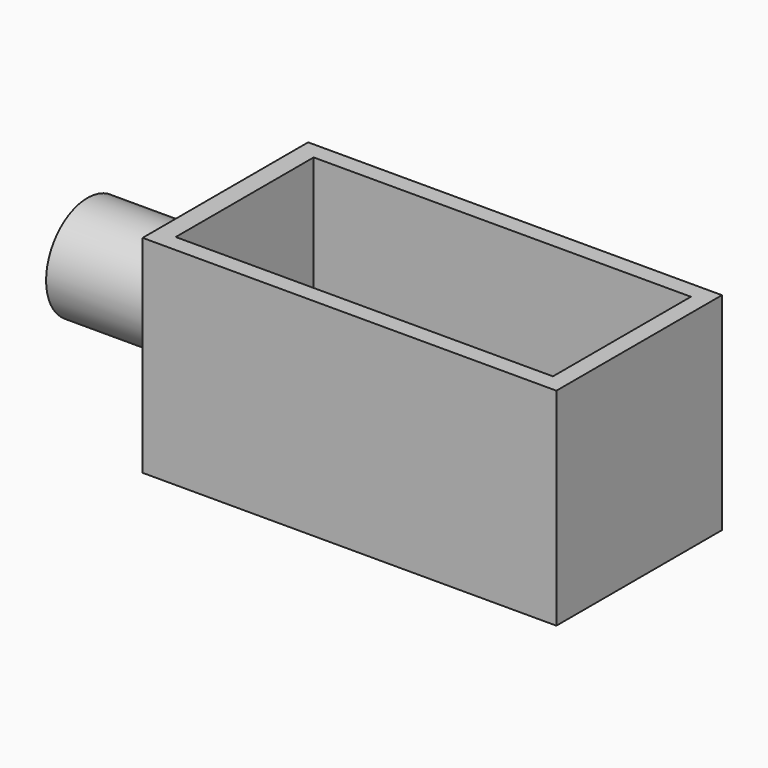
from build123d import *

# Parameters (mm, degrees)
F0_W     = 152.4
F0_H     = 76.2
F1_DEPTH = 6.35
F2_W     = 138.938
F2_H     = 6.35
F3_DEPTH = 69.85
F4_R     = 19.05
F4_R_2   = 7.9375
F5_DEPTH = 50.8
F6_R     = 7.9375
F7_DEPTH = 7.62
F8_SIZE  = 5.08
F9_SIZE  = 5.08


with BuildPart() as f1:
    # F0 (on Top) → F1 (new body)
    with BuildSketch(Plane.XY):
        Rectangle(F0_W, F0_H)
    extrude(amount=F1_DEPTH)

    # F2 (on face) → F3 (join)
    with BuildSketch(Plane.XY.offset(6.35)):
        Polygon((-69.088, 38.1), (-76.2, 38.1), (-76.2, -38.1), (-69.088, -38.1), (-69.088, -31.75), (-69.088, 31.75), align=None)
        Polygon((76.2, 38.1), (-69.088, 38.1), (-69.088, 31.75), (69.85, 31.75), (76.2, 31.75), align=None)
        with Locations((0.381, -34.925)):
            Rectangle(F2_W, F2_H)
        Polygon((76.2, 31.75), (69.85, 31.75), (69.85, -31.75), (69.85, -38.1), (76.2, -38.1), align=None)
    extrude(amount=F3_DEPTH)

    # F4 (on face) → F5 (join)
    with BuildSketch(Plane(origin=(-76.2, 0, 0), x_dir=(0, -1, 0), z_dir=(-1, 0, 0))):
        with Locations((0, 38.1)):
            Circle(F4_R)
        with Locations((0, 38.1)):
            Circle(F4_R_2, mode=Mode.SUBTRACT)
    extrude(amount=F5_DEPTH)

    # F6 (on face) → F7 (cut)
    with BuildSketch(Plane(origin=(-76.2, 0, 0), x_dir=(0, -1, 0), z_dir=(-1, 0, 0))):
        with Locations((0, 38.1)):
            Circle(F6_R)
    extrude(amount=-F7_DEPTH, mode=Mode.SUBTRACT)

    # F8
    f8_edges = [f1.edges().sort_by_distance(p)[0] for p in [
        (-69.088, 7.9375, 38.1),
    ]]
    chamfer(f8_edges, length=F8_SIZE)

    # F9
    f9_edges = [f1.edges().sort_by_distance(p)[0] for p in [
        (-127, 7.9375, 38.1),
    ]]
    chamfer(f9_edges, length=F9_SIZE)


solid = f1.part
